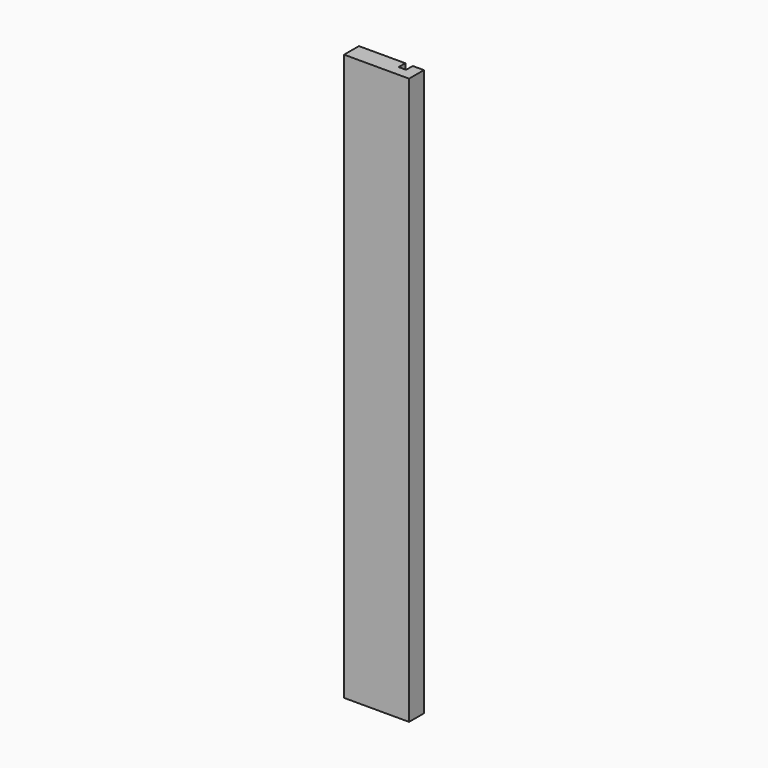
from build123d import *

# Parameters (mm, degrees)
F0_W     = 70
F0_H     = 610
F1_DEPTH = 20
F2_W     = 8
F2_H     = 610
F3_DEPTH = 9


with BuildPart() as f1:
    # F0 (on Front) → F1 (new body)
    with BuildSketch(Plane.XZ):
        with Locations((-58.125427, 79.716102)):
            Rectangle(F0_W, F0_H)
    extrude(amount=-F1_DEPTH)

    # F2 (on face) → F3 (cut)
    with BuildSketch(Plane(origin=(0, 20, 0), x_dir=(-1, 0, 0), z_dir=(0, 1, 0))):
        with Locations((39.125427, 79.716102)):
            Rectangle(F2_W, F2_H)
    extrude(amount=-F3_DEPTH, mode=Mode.SUBTRACT)


solid = f1.part
